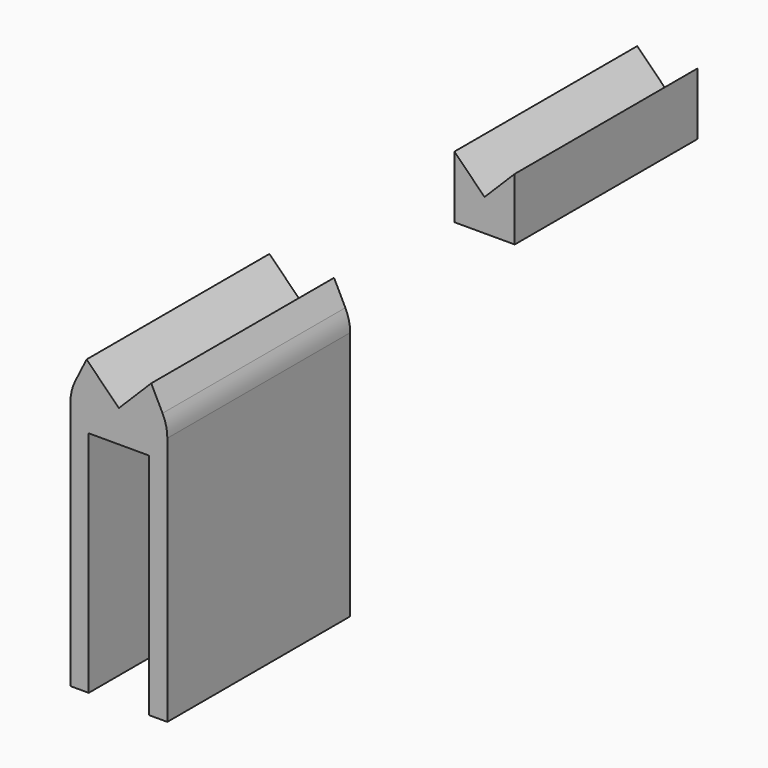
from build123d import *

# Parameters (mm, degrees)
F0_W          = 2
F0_H          = 25
F0_W_2        = 6.6
F1_DEPTH      = 3.5
F2_DEPTH      = 25
F4_DEPTH      = 12.5
F4_DEPTH_BACK = 12.5
F5_R          = 5
F7_W          = 25
F7_H          = 20
F8_DEPTH      = 25
F10_DEPTH     = 27.2


with BuildPart() as f1:
    # F0 (on Top) → F1 (new body)
    with BuildSketch(Plane.XY):
        with Locations((-4.3, 0)):
            Rectangle(F0_W, F0_H)
        Rectangle(F0_W_2, F0_H)
        with Locations((4.3, 0)):
            Rectangle(F0_W, F0_H)
    extrude(amount=F1_DEPTH)

    # F0 (on Top) → F2 (join)
    with BuildSketch(Plane.XY):
        with Locations((-4.3, 0)):
            Rectangle(F0_W, F0_H)
        with Locations((4.3, 0)):
            Rectangle(F0_W, F0_H)
    extrude(amount=-F2_DEPTH)

    # F3 (on Front) → F4 (join, two sides)
    with BuildSketch(Plane.XZ) as f4_sk:
        Polygon((0, 3.5), (5.3, 3.5), (3.5355339059, 7.0355339059), align=None)
        Polygon((-5.3, 3.5), (0, 3.5), (-3.5355339059, 7.0355339059), align=None)
    extrude(amount=F4_DEPTH)
    extrude(f4_sk.sketch, amount=-F4_DEPTH_BACK)

    # F5
    f5_edges = [f1.edges().sort_by_distance(p)[0] for p in [
        (-5.3, 0, 3.5),
        (5.3, 0, 3.5),
    ]]
    fillet(f5_edges, radius=F5_R)


with BuildPart() as f6_1:
    # F6: copy of F1
    add(f1.part.moved(Location((0, 50, 0))))

    # F7 (on face) → F8 (cut)
    with BuildSketch(Plane.YZ.offset(5.3)):
        with Locations((50, -15)):
            Rectangle(F7_W, F7_H)
    extrude(amount=-F8_DEPTH, mode=Mode.SUBTRACT)

    # F9 (on face) → F10 (cut)
    with BuildSketch(Plane(origin=(0, 62.5, 0), x_dir=(-1, 0, 0), z_dir=(0, 1, 0))):
        with BuildLine():
            Line((-5.3, 2.3216319807), (-5.3, -5))
            Line((-5.3, -5), (-3.3, -5))
            Line((-3.3, -5), (-3.3, 0))
            Line((-3.3, 0), (-3.3, 6.8))
            Line((-3.3, 6.8), (-3.5355339059, 7.0355339059))
            Line((-3.5355339059, 7.0355339059), (-4.7738054473, 4.5543578527))
            ThreePointArc((-4.7738054473, 4.5543578527), (-5.1666737736, 3.4685785277), (-5.3, 2.3216319807))
        make_face()
        with BuildLine():
            Line((3.3, 6.8), (3.3, 0))
            Line((3.3, 0), (3.3, -5))
            Line((3.3, -5), (5.3, -5))
            Line((5.3, -5), (5.3, 2.3216319807))
            ThreePointArc((5.3, 2.3216319807), (5.1666737736, 3.4685785277), (4.7738054473, 4.5543578527))
            Line((4.7738054473, 4.5543578527), (3.5355339059, 7.0355339059))
            Line((3.5355339059, 7.0355339059), (3.3, 6.8))
        make_face()
    extrude(amount=-F10_DEPTH, mode=Mode.SUBTRACT)


solid = Compound([f1.part, f6_1.part])
